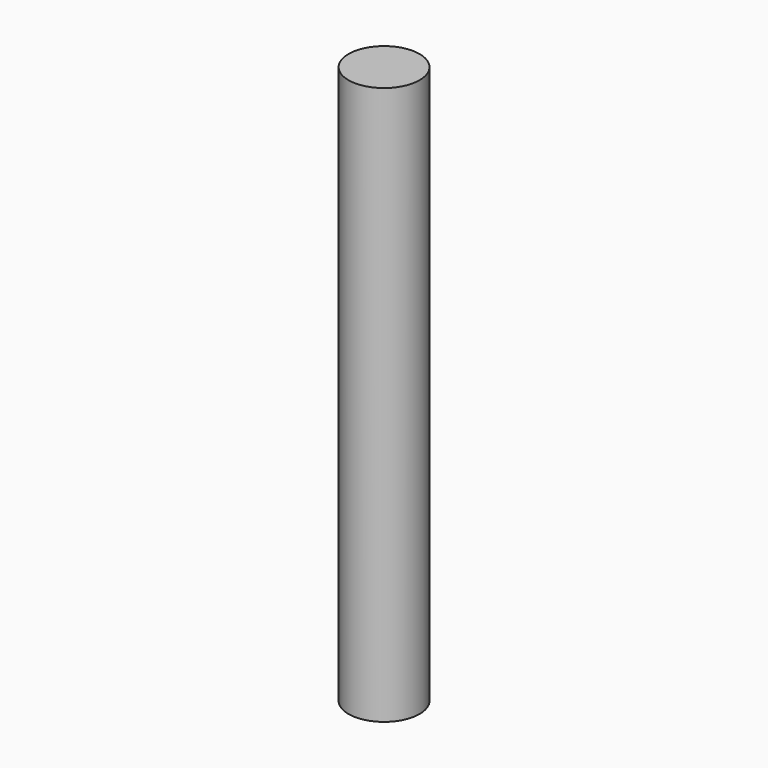
from build123d import *

# Parameters (mm, degrees)
F0_R     = 6.466547
F1_DEPTH = 101.6
F2_R     = 4.179737
F3_DEPTH = 50.8


with BuildPart() as f1:
    # F0 (on Top) → F1 (new body)
    with BuildSketch(Plane.XY):
        Circle(F0_R)
    extrude(amount=F1_DEPTH)

    # F2 (on Right) → F3 (cut)
    with BuildSketch(Plane.YZ):
        with Locations((0, 48.969593)):
            Circle(F2_R)
    extrude(amount=-F3_DEPTH, mode=Mode.SUBTRACT)


solid = f1.part
